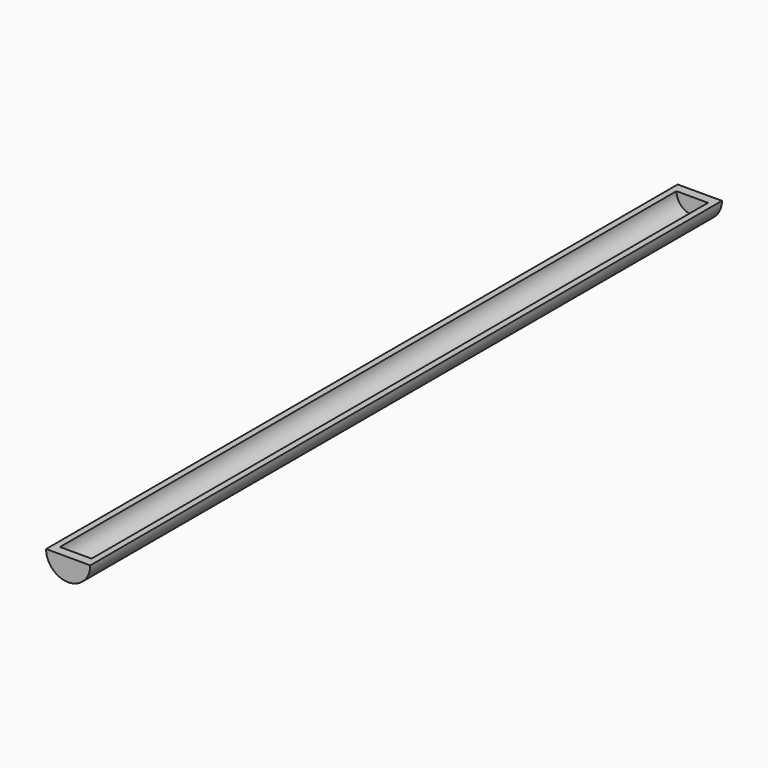
from build123d import *

# Parameters (mm, degrees)
F1_DEPTH = 125
F3_DEPTH = 3
F5_DEPTH = 3


with BuildPart() as f1:
    # F0 (on Front) → F1 (new body, symmetric)
    with BuildSketch(Plane.XZ):
        with BuildLine():
            Line((-9.569632, 7), (-11.569632, 7))
            ThreePointArc((-11.569632, 7), (-4.569632, 0), (2.430368, 7))
            Line((2.430368, 7), (0.430368, 7))
            ThreePointArc((0.430368, 7), (-4.569632, 2), (-9.569632, 7))
        make_face()
    extrude(amount=F1_DEPTH, both=True)

    # F2 (on face) → F3 (join)
    with BuildSketch(Plane.XZ.offset(125)):
        with BuildLine():
            Line((0.430368, 7), (-9.569632, 7))
            ThreePointArc((-9.569632, 7), (-4.569632, 2), (0.430368, 7))
        make_face()
    extrude(amount=-F3_DEPTH)

    # F4 (on face) → F5 (join)
    with BuildSketch(Plane(origin=(0, 125, 0), x_dir=(-1, 0, 0), z_dir=(0, 1, 0))):
        with BuildLine():
            Line((9.569632, 7), (-0.430368, 7))
            ThreePointArc((-0.430368, 7), (4.569632, 2), (9.569632, 7))
        make_face()
    extrude(amount=-F5_DEPTH)


solid = f1.part
